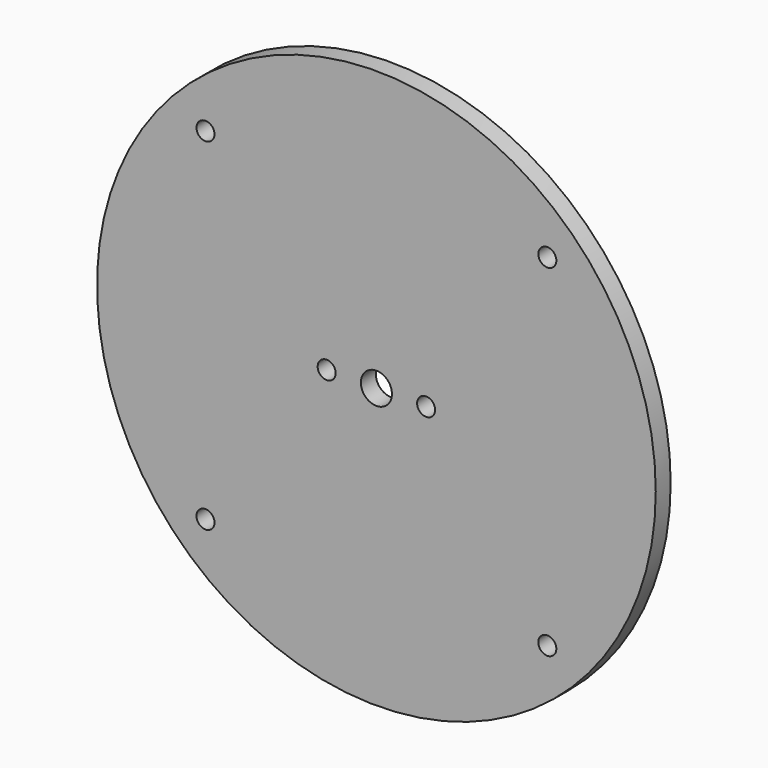
from build123d import *

# Parameters (mm, degrees)
F0_R     = 44.95
F1_DEPTH = 3
F2_R     = 1.45
F2_R_2   = 2.5
F3_DEPTH = 3.001
F4_R     = 1.45
F5_DEPTH = 3.001


with BuildPart() as f1:
    # F0 (on Front) → F1 (new body)
    with BuildSketch(Plane.XZ):
        Circle(F0_R)
    extrude(amount=F1_DEPTH)

    # F2 (on face) → F3 (cut, through all)
    with BuildSketch(Plane.XZ.offset(3)):
        with Locations((-8, 0)):
            Circle(F2_R)
        with Locations((8, 0)):
            Circle(F2_R)
        Circle(F2_R_2)
    extrude(amount=-F3_DEPTH, mode=Mode.SUBTRACT)

    # F4 (on face) → F5 (cut, through all)
    with BuildSketch(Plane.XZ.offset(3)):
        with Locations((-27.5, 27.5)):
            Circle(F4_R)
        with Locations((27.5, 27.5)):
            Circle(F4_R)
        with Locations((-27.5, -27.5)):
            Circle(F4_R)
        with Locations((27.5, -27.5)):
            Circle(F4_R)
    extrude(amount=-F5_DEPTH, mode=Mode.SUBTRACT)


solid = f1.part
